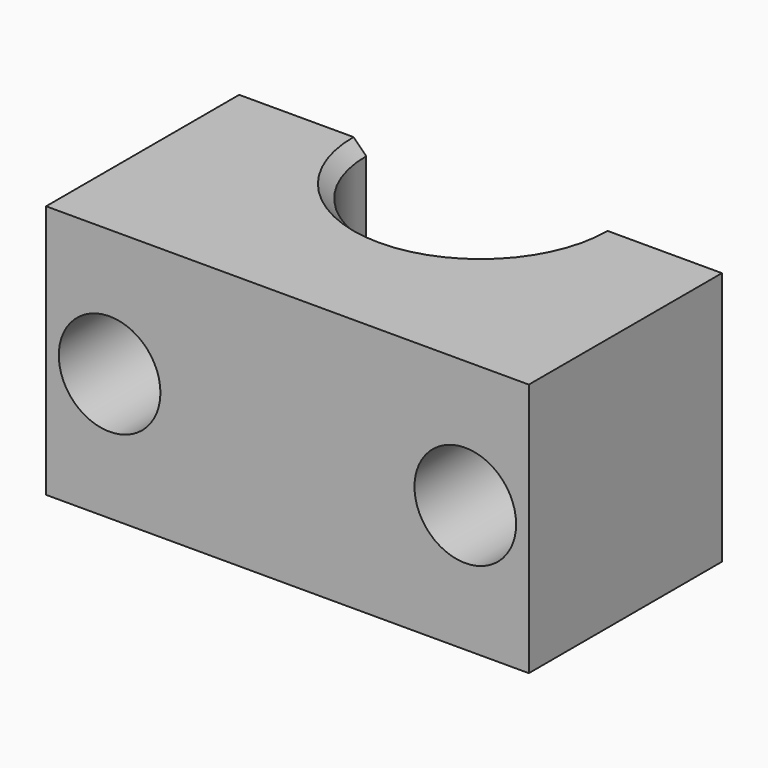
from build123d import *

# Parameters (mm, degrees)
F1_DEPTH = 20
F2_R     = 2
F3_DEPTH = 19.001
F4_R     = 4
F5_DEPTH = 14
F6_SIZE  = 1


with BuildPart() as f1:
    # F0 (on Top) → F1 (new body)
    with BuildSketch(Plane.XY):
        with BuildLine():
            Line((-9, 9.5), (-19, 9.5))
            Line((-19, 9.5), (-19, -9.5))
            Line((-19, -9.5), (19, -9.5))
            Line((19, -9.5), (19, 9.5))
            Line((19, 9.5), (9, 9.5))
            ThreePointArc((9, 9.5), (0, 0.5), (-9, 9.5))
        make_face()
    extrude(amount=F1_DEPTH)

    # F2 (on face) → F3 (cut, through all)
    with BuildSketch(Plane(origin=(0, 9.5, 0), x_dir=(-1, 0, 0), z_dir=(0, 1, 0))):
        with Locations((-14, 10)):
            Circle(F2_R)
        with Locations((14, 10)):
            Circle(F2_R)
    extrude(amount=-F3_DEPTH, mode=Mode.SUBTRACT)

    # F4 (on face) → F5 (cut)
    with BuildSketch(Plane.XZ.offset(9.5)):
        with Locations((-14, 10)):
            Circle(F4_R)
        with Locations((14, 10)):
            Circle(F4_R)
    extrude(amount=-F5_DEPTH, mode=Mode.SUBTRACT)

    # F6
    f6_edges = [f1.edges().sort_by_distance(p)[0] for p in [
        (0, 0.5, 0),
        (0, 0.5, 20),
    ]]
    chamfer(f6_edges, length=F6_SIZE)


solid = f1.part
